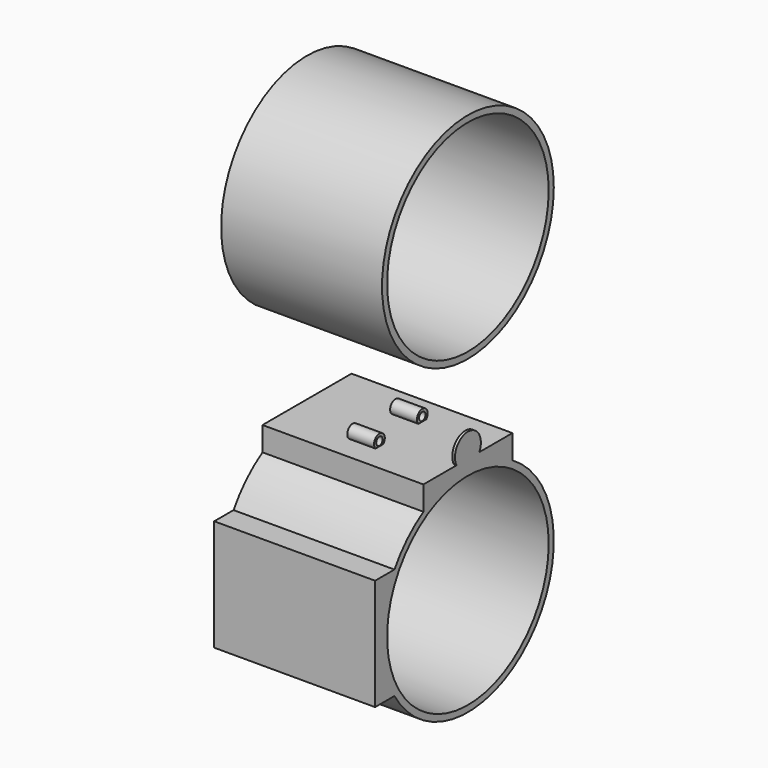
from build123d import *

# Parameters (mm, degrees)
F0_R      = 40.0350439811
F1_DEPTH  = 60
F2_R      = 37.6570566031
F3_DEPTH  = 120
F6_DEPTH  = 60
F8_DEPTH  = 1
F10_R     = 2.4996133209
F11_DEPTH = 10
F12_R     = 1.4969983417
F13_DEPTH = 10
F15_DEPTH = 60


with BuildPart() as f1:
    # F0 (on Right) → F1 (new body)
    with BuildSketch(Plane.YZ):
        Circle(F0_R)
    extrude(amount=F1_DEPTH)

    # F2 (on Right) → F3 (cut)
    with BuildSketch(Plane.YZ):
        Circle(F2_R)
    extrude(amount=F3_DEPTH, mode=Mode.SUBTRACT)


with BuildPart() as f5_1:
    # F5: copy of F1
    add(f1.part.moved(Location((0, 0, 116))))


with BuildPart() as f1_1:
    add(f1.part)

    # F4 (on Right) → F6 (join)
    with BuildSketch(Plane.YZ):
        with BuildLine():
            Line((20.747423172, 43.2087630033), (0, 43.2087630033))
            Line((0, 43.2087630033), (-20.747423172, 43.2087630033))
            Line((-20.747423172, 43.2087630033), (-20.747423172, 34.1881476343))
            ThreePointArc((-20.747423172, 34.1881476343), (0, 39.9910615881), (20.747423172, 34.1881476343))
            Line((20.747423172, 34.1881476343), (20.747423172, 43.2087630033))
        make_face()
    extrude(amount=F6_DEPTH)

    # F7 (on face) → F8 (join)
    with BuildSketch(Plane.YZ.offset(60)):
        with BuildLine():
            Line((-5.3158194075, 43.2087630033), (0, 43.2087630033))
            Line((0, 43.2087630033), (5.3158194075, 43.2087630033))
            ThreePointArc((5.3158194075, 43.2087630033), (5.8552096085, 44.596367972), (6.0387243068, 46.0737682879))
            ThreePointArc((6.0387243068, 46.0737682879), (-1.4774003159, 51.9289778964), (-5.3158194075, 43.2087630033))
        make_face()
        with BuildLine():
            ThreePointArc((-5.3158194075, 43.2087630033), (-3.0955786375, 40.8888300865), (0, 40.0350439811))
            Line((0, 40.0350439811), (0, 43.2087630033))
            Line((0, 43.2087630033), (-5.3158194075, 43.2087630033))
        make_face()
        with BuildLine():
            Line((0, 43.2087630033), (0, 40.0350439811))
            ThreePointArc((0, 40.0350439811), (3.0955786375, 40.8888300865), (5.3158194075, 43.2087630033))
            Line((5.3158194075, 43.2087630033), (0, 43.2087630033))
        make_face()
    extrude(amount=-F8_DEPTH)

    # F10 (on offset) → F11 (join)
    with BuildSketch(Plane.YZ.offset(35)):
        with Locations((-9.9929571152, 44.9139364064)):
            Circle(F10_R)
        with Locations((9.9929571152, 44.9139364064)):
            Circle(F10_R)
    extrude(amount=-F11_DEPTH)

    # F12 (on face) → F13 (cut)
    with BuildSketch(Plane.YZ.offset(35)):
        with Locations((-9.9929571152, 44.9139364064)):
            Circle(F12_R)
        with Locations((9.9929571152, 44.9139364064)):
            Circle(F12_R)
    extrude(amount=-F13_DEPTH, mode=Mode.SUBTRACT)

    # F14 (on face) → F15 (join)
    with BuildSketch(Plane(origin=(0, 0, 0), x_dir=(0, -1, 0), z_dir=(-1, 0, 0))):
        with BuildLine():
            Line((43.2531200349, -20.7521766424), (43.2531200349, 0))
            Line((43.2531200349, 0), (43.2531200349, 20.7521766424))
            Line((43.2531200349, 20.7521766424), (34.2367041517, 20.7521766424))
            ThreePointArc((34.2367041517, 20.7521766424), (40.0350439811, 0), (34.2367041517, -20.7521766424))
            Line((34.2367041517, -20.7521766424), (43.2531200349, -20.7521766424))
        make_face()
    extrude(amount=-F15_DEPTH)


solid = Compound([f5_1.part, f1_1.part])
